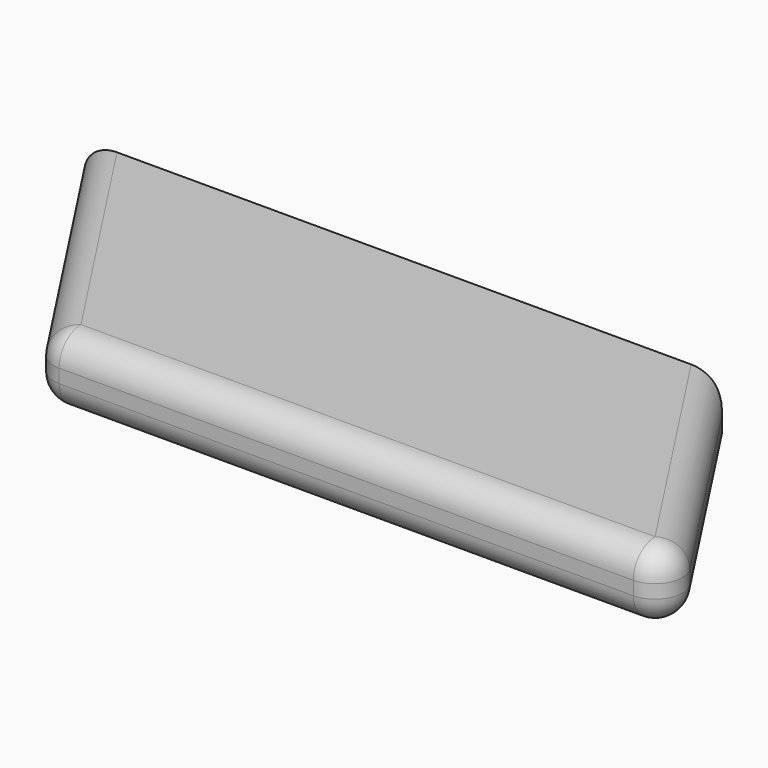
from build123d import *

# Parameters (mm, degrees)
F1_DEPTH = 5
F2_R     = 2


with BuildPart() as f1:
    # F0 (on Top) → F1 (new body)
    with BuildSketch(Plane.XY):
        Polygon((16.937762, 10), (-30, 10), (-16.937762, -10), (30, -10), align=None)
    extrude(amount=F1_DEPTH)

    # F2
    f2_edges = [f1.edges().sort_by_distance(p)[0] for p in [
        (6.531119, -10, 5),
        (-23.468881, 0, 5),
        (-23.468881, 0, 0),
        (23.468881, 0, 5),
        (30, -10, 2.5),
        (16.937762, 10, 2.5),
        (23.468881, 0, 0),
        (6.531119, -10, 0),
        (-16.937762, -10, 2.5),
    ]]
    fillet(f2_edges, radius=F2_R)


solid = f1.part
